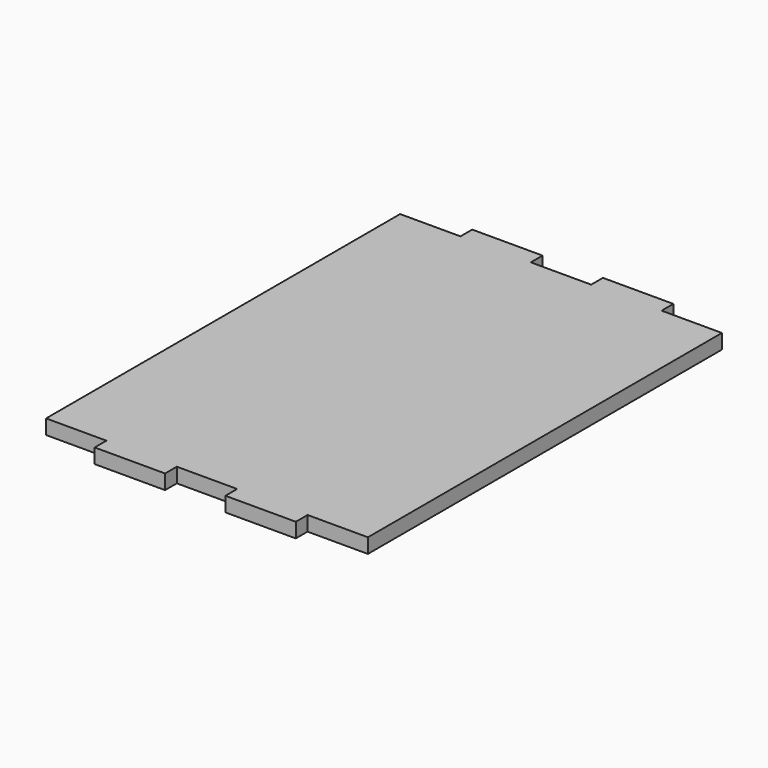
from build123d import *

# Parameters (mm, degrees)
F0_W     = 406.4
F0_H     = 558.8
F1_DEPTH = 18.542
F2_W     = 88.9
F2_H     = 18.542
F3_DEPTH = 18.542
F4_W     = 88.9
F4_H     = 18.542
F5_DEPTH = 18.542


with BuildPart() as f1:
    # F0 (on Top) → F1 (new body)
    with BuildSketch(Plane.XY):
        with Locations((-0.222251, 131.257872)):
            Rectangle(F0_W, F0_H)
    extrude(amount=F1_DEPTH)

    # F2 (on face) → F3 (join)
    with BuildSketch(Plane.XZ.offset(148.142128)):
        with Locations((-82.772251, 9.271)):
            Rectangle(F2_W, F2_H)
        with Locations((82.327749, 9.271)):
            Rectangle(F2_W, F2_H)
    extrude(amount=F3_DEPTH)

    # F4 (on face) → F5 (join)
    with BuildSketch(Plane(origin=(0, 410.657872, 0), x_dir=(-1, 0, 0), z_dir=(0, 1, 0))):
        with Locations((-82.327749, 9.271)):
            Rectangle(F4_W, F4_H)
        with Locations((82.772251, 9.271)):
            Rectangle(F4_W, F4_H)
    extrude(amount=F5_DEPTH)


solid = f1.part
